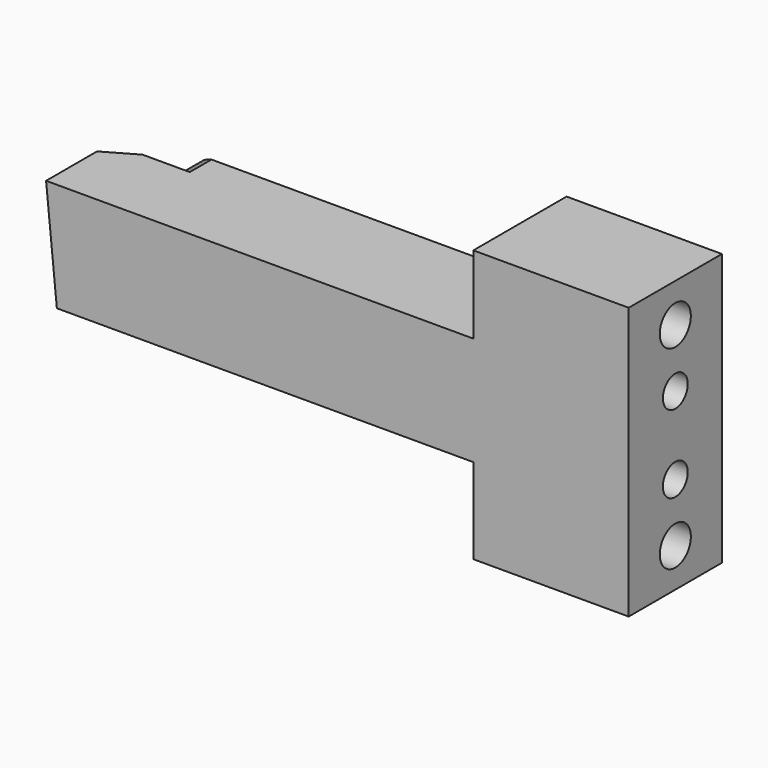
from build123d import *

# Parameters (mm, degrees)
F0_W     = 6
F0_H     = 4
F0_W_2   = 20
F0_H_2   = 5
F1_DEPTH = 10.5
F2_W     = 20
F2_H     = 5
F3_DEPTH = 4.5
F4_R     = 2.5
F5_DEPTH = 20.001
F6_R     = 2
F7_DEPTH = 6
F8_SIZE  = 1
F9_SIZE2 = 2.3094010768
F9_SIZE  = 4


with BuildPart() as f1:
    # F0 (on Front) → F1 (new body)
    with BuildSketch(Plane.XZ):
        Polygon((66.887199, -59.346183), (72.887199, -59.346183), (72.887199, -55.346183), (66.887199, -55.346183), (66.887199, -57.346183), align=None)
        Polygon((52.887199, -45.846183), (6.252832, -45.846183), (7.441181, -57.846183), (52.887199, -57.846183), (52.887199, -58.846183), (52.887199, -64.846183), (72.887199, -64.846183), (72.887199, -59.346183), (66.887199, -59.346183), (65.732498, -57.346183), (66.887199, -55.346183), (72.887199, -55.346183), (72.887199, -49.346183), (66.887199, -49.346183), (65.732498, -47.346183), (66.887199, -45.346183), (72.887199, -45.346183), (72.887199, -39.846183), (52.887199, -39.846183), (52.887199, -44.846183), align=None)
        with Locations((69.887199, -47.346183)):
            Rectangle(F0_W, F0_H)
        with Locations((62.887199, -37.346183)):
            Rectangle(F0_W_2, F0_H_2)
        with Locations((62.887199, -67.346183)):
            Rectangle(F0_W_2, F0_H_2)
        Polygon((2.754653, -58.846183), (1.368245, -44.846183), (-2.112801, -44.846183), (-0.726393, -58.846183), align=None)
        Polygon((7.984883, -44.846183), (1.368245, -44.846183), (2.754653, -58.846183), (9.173232, -58.846183), (7.441181, -57.846183), (6.252832, -45.846183), align=None)
        Polygon((52.887199, -44.846183), (7.984883, -44.846183), (6.252832, -45.846183), (52.887199, -45.846183), align=None)
        Polygon((7.441181, -57.846183), (9.173232, -58.846183), (52.887199, -58.846183), (52.887199, -57.846183), align=None)
        Polygon((65.732498, -57.346183), (66.887199, -59.346183), (66.887199, -57.346183), align=None)
        Polygon((66.887199, -49.346183), (66.887199, -45.346183), (65.732498, -47.346183), align=None)
        Polygon((65.732498, -57.346183), (66.887199, -57.346183), (66.887199, -55.346183), align=None)
    extrude(amount=-F1_DEPTH)

    # F2 (on face) → F3 (join)
    with BuildSketch(Plane(origin=(0, 10.5, 0), x_dir=(-1, 0, 0), z_dir=(0, 1, 0))):
        with Locations((-62.887199, -37.346183)):
            Rectangle(F2_W, F2_H)
        Polygon((-72.887199, -55.346183), (-72.887199, -59.346183), (-72.887199, -64.846183), (-52.887199, -64.846183), (-52.887199, -58.846183), (-9.173232, -58.846183), (-7.441181, -57.846183), (-6.252832, -45.846183), (-7.984883, -44.846183), (-52.887199, -44.846183), (-52.887199, -39.846183), (-72.887199, -39.846183), (-72.887199, -45.346183), (-72.887199, -49.346183), align=None)
        with Locations((-62.887199, -67.346183)):
            Rectangle(F2_W, F2_H)
    extrude(amount=F3_DEPTH)

    # F4 (on face) → F5 (cut, through all)
    with BuildSketch(Plane(origin=(52.887199, 0, 0), x_dir=(0, -1, 0), z_dir=(-1, 0, 0))):
        with Locations((-7.5, -39.846183)):
            Circle(F4_R)
        with Locations((-7.5, -64.846183)):
            Circle(F4_R)
    extrude(amount=-F5_DEPTH, mode=Mode.SUBTRACT)

    # F6 (on face) → F7 (cut)
    with BuildSketch(Plane.YZ.offset(72.887199)):
        with Locations((7.5, -47.346183)):
            Circle(F6_R)
        with Locations((7.5, -57.346183)):
            Circle(F6_R)
    extrude(amount=-F7_DEPTH, mode=Mode.SUBTRACT)

    # F8
    f8_edges = [f1.edges().sort_by_distance(p)[0] for p in [
        (30.436041, 15, -44.846183),
        (31.030216, 15, -58.846183),
    ]]
    chamfer(f8_edges, length=F8_SIZE)

    # F9
    f9_edges = [f1.edges().sort_by_distance(p)[0] for p in [
        (-1.419597, 10.5, -51.846183),
    ]]
    f9_side = f1.faces().sort_by_distance((2.782636, 10.5, -51.840563))[0]
    chamfer(f9_edges, length=F9_SIZE, length2=F9_SIZE2, reference=f9_side)


solid = f1.part
